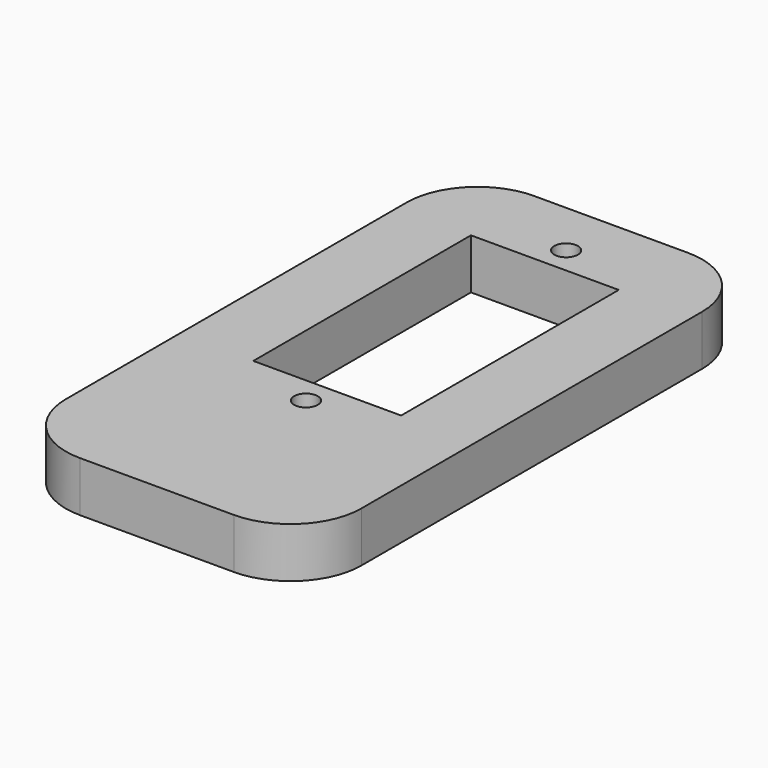
from build123d import *

# Parameters (mm, degrees)
F0_W     = 25
F0_H     = 48
F0_R     = 1
F0_W_2   = 12.5
F0_H_2   = 23
F1_DEPTH = 4.25
F2_R     = 6


with BuildPart() as f1:
    # F0 (on Top) → F1 (new body)
    with BuildSketch(Plane.XY):
        with Locations((0, -5.5)):
            Rectangle(F0_W, F0_H)
        with Locations((0, -13.75)):
            Circle(F0_R, mode=Mode.SUBTRACT)
        Rectangle(F0_W_2, F0_H_2, mode=Mode.SUBTRACT)
        with Locations((0, 13.75)):
            Circle(F0_R, mode=Mode.SUBTRACT)
    extrude(amount=F1_DEPTH)

    # F2
    f2_edges = [f1.edges().sort_by_distance(p)[0] for p in [
        (-12.5, 18.5, 2.125),
        (12.5, 18.5, 2.125),
        (12.5, -29.5, 2.125),
        (-12.5, -29.5, 2.125),
    ]]
    fillet(f2_edges, radius=F2_R)


solid = f1.part
